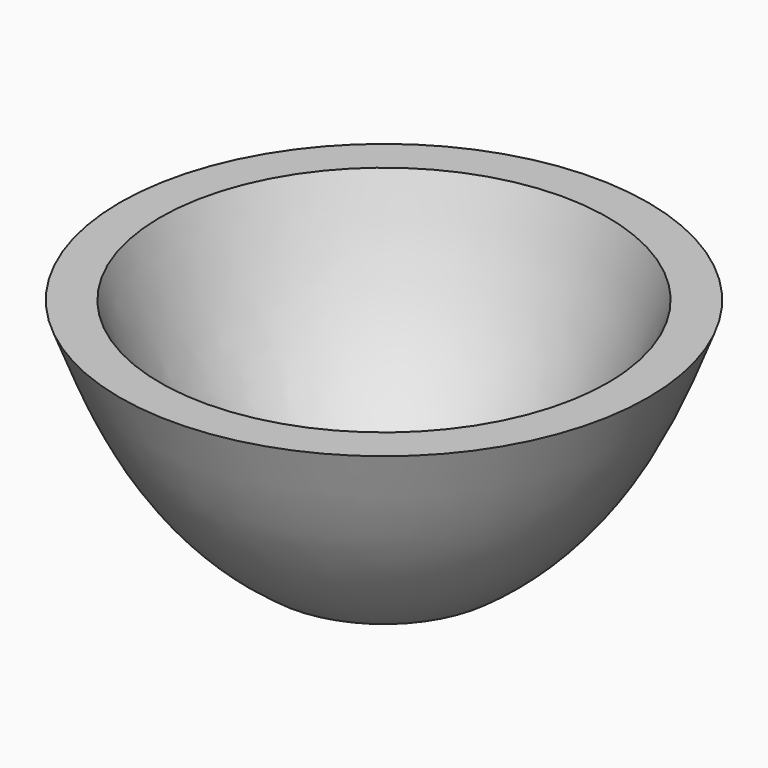
from build123d import *

# Parameters (mm, degrees)
F2_T = -10


with BuildPart() as f1:
    # F0 (on Front) → F1 (revolve)
    with BuildSketch(Plane.XZ):
        with BuildLine():
            Line((0, 60), (0, 0))
            Line((0, 0), (30, 0))
            add(Edge.make_bspline(
                [(30, 0), (38.7521672358, 6.2062857758), (53.4396564612, 21.6828160602), (62.9937983575, 40.9593766205), (70, 60)],
                knots=[0, 0, 0, 0, 0.4527725652, 1, 1, 1, 1], degree=3))
            Line((70, 60), (0, 60))
        make_face()
    revolve(axis=Axis((0, 0, 30), (0, 0, 1)))

    # F2
    f2_openings = [f1.faces().sort_by_distance(p)[0] for p in [
        (0, 0, 60),
    ]]
    offset(amount=F2_T, openings=f2_openings)


solid = f1.part
